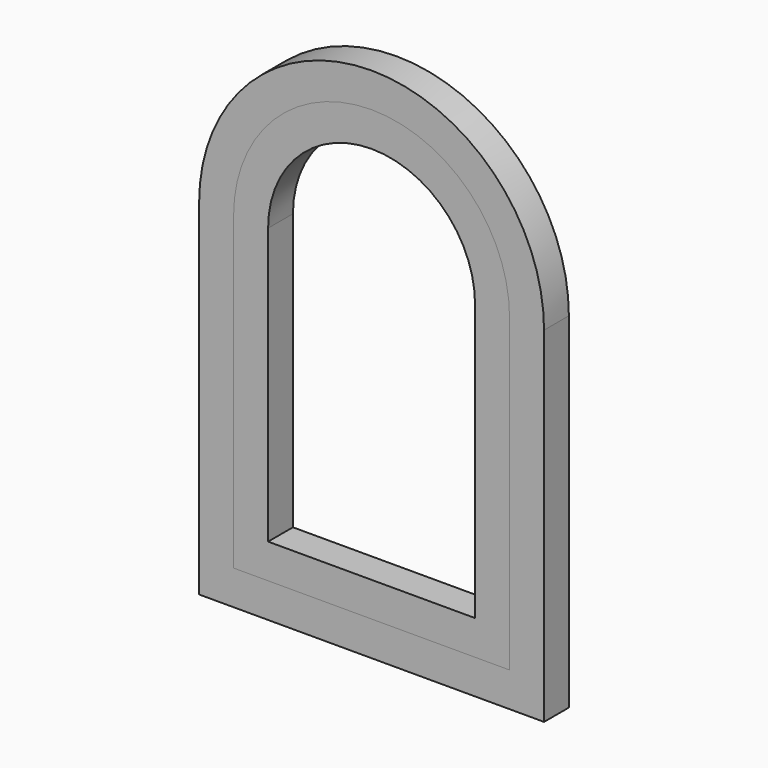
from build123d import *

# Parameters (mm, degrees)
F1_DEPTH = 18
F2_DEPTH = 18


with BuildPart() as f1:
    # F0 (on Front) → F1 (new body)
    with BuildSketch(Plane.XZ):
        with BuildLine():
            Line((20, 200), (20, 20))
            Line((20, 20), (180, 20))
            Line((180, 20), (180, 200))
            ThreePointArc((180, 200), (100, 280), (20, 200))
        make_face()
        with BuildLine():
            ThreePointArc((40, 200), (100, 260), (160, 200))
            Line((160, 200), (160, 40))
            Line((160, 40), (40, 40))
            Line((40, 40), (40, 200))
        make_face(mode=Mode.SUBTRACT)
    extrude(amount=F1_DEPTH)


with BuildPart() as f2:
    # F0 (on Front) → F2 (new body)
    with BuildSketch(Plane.XZ):
        with BuildLine():
            Line((0, 200), (0, 0))
            Line((0, 0), (200, 0))
            Line((200, 0), (200, 200))
            ThreePointArc((200, 200), (100, 300), (0, 200))
        make_face()
        with BuildLine():
            Line((180, 20), (20, 20))
            Line((20, 20), (20, 200))
            ThreePointArc((20, 200), (100, 280), (180, 200))
            Line((180, 200), (180, 20))
        make_face(mode=Mode.SUBTRACT)
    extrude(amount=F2_DEPTH)


solid = Compound([f1.part, f2.part])
